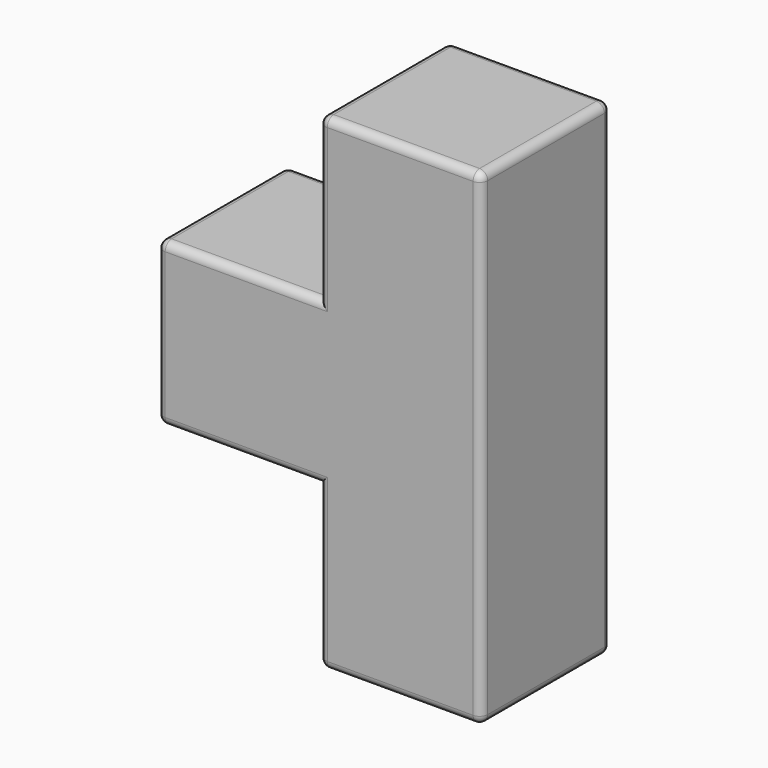
from build123d import *

# Parameters (mm, degrees)
F0_W     = 10
F0_H     = 10
F1_DEPTH = 10
F2_R     = 0.5


with BuildPart() as f1:
    # F0 (on Front) → F1 (new body)
    with BuildSketch(Plane.XZ):
        Polygon((5, -15), (5, 15), (-5, 15), (-5, 5), (-5, -5), (-5, -15), align=None)
        with Locations((-10, 0)):
            Rectangle(F0_W, F0_H)
    extrude(amount=F1_DEPTH)

    # F2
    f2_edges = [f1.edges().sort_by_distance(p)[0] for p in [
        (5, -10, 0),
        (0, -10, 15),
        (-5, -10, 10),
        (-10, -10, 5),
        (-15, -10, 0),
        (-10, -10, -5),
        (-5, -10, -10),
        (0, -10, -15),
        (5, 0, 0),
        (0, 0, 15),
        (-5, 0, 10),
        (-10, 0, 5),
        (-15, 0, 0),
        (-10, 0, -5),
        (-5, 0, -10),
        (0, 0, -15),
        (5, -5, 15),
        (-5, -5, 15),
        (-15, -5, 5),
        (-15, -5, -5),
        (-5, -5, -15),
        (5, -5, -15),
    ]]
    fillet(f2_edges, radius=F2_R)


solid = f1.part
